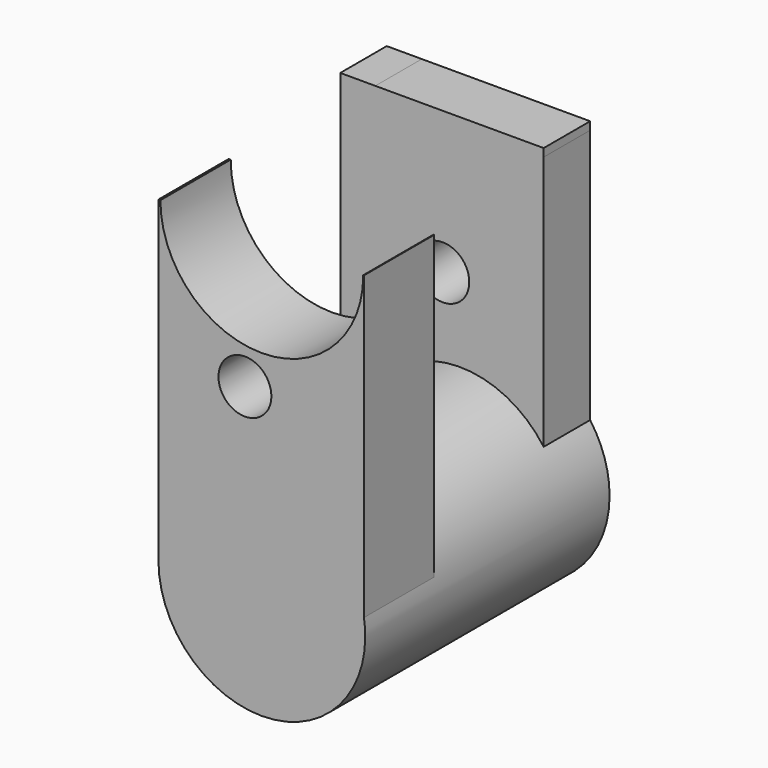
from build123d import *

# Parameters (mm, degrees)
F0_R     = 17.628013
F1_DEPTH = 52.07
F6_DEPTH = 14.986
F2_W     = 34.678817
F2_H     = 55.124529
F7_DEPTH = 9.906
F8_R     = 4.510696
F9_DEPTH = 2514.6


with BuildPart() as f1:
    # F0 (on Front) → F1 (new body)
    with BuildSketch(Plane.XZ):
        Circle(F0_R)
    extrude(amount=F1_DEPTH)

    # F4 (on face) → F6 (join)
    with BuildSketch(Plane.XZ.offset(52.07)):
        with BuildLine():
            ThreePointArc((17.29034, 54.155942), (17.290353, 54.143466), (17.290358, 54.13099))
            ThreePointArc((17.290358, 54.13099), (-0.012476, 36.840637), (-17.29034, 54.155942))
            Line((-17.29034, 54.155942), (-17.628013, 54.155942))
            Line((-17.628013, 54.155942), (-17.628013, 0))
            ThreePointArc((-17.628013, 0), (-1.404154, 17.572), (17.404318, 2.799385))
            Line((17.404318, 2.799385), (17.404318, 54.155942))
            Line((17.404318, 54.155942), (17.29034, 54.155942))
        make_face()
    extrude(amount=-F6_DEPTH)

    # F5 (on face) + F2 (on Front) → F7 (join)
    with BuildSketch(Plane.XZ):
        with BuildLine():
            ThreePointArc((14.317841, 53.7648), (-0.680686, 40.781741), (-14.384703, 55.124529))
            Line((-14.384703, 55.124529), (-20.360976, 55.124529))
            Line((-20.360976, 55.124529), (-20.360976, 0))
            Line((-20.360976, 0), (14.317841, 0))
            Line((14.317841, 0), (14.317841, 53.7648))
        make_face()
    with BuildSketch(Plane.XZ):
        with Locations((-3.021568, 27.562264)):
            Rectangle(F2_W, F2_H)
    extrude(amount=F7_DEPTH)

    # F8 (on face) → F9 (cut)
    with BuildSketch(Plane.XZ.offset(52.07)):
        with Locations((-2.881597, 30.884339)):
            Circle(F8_R)
    extrude(amount=-F9_DEPTH, mode=Mode.SUBTRACT)


solid = f1.part
